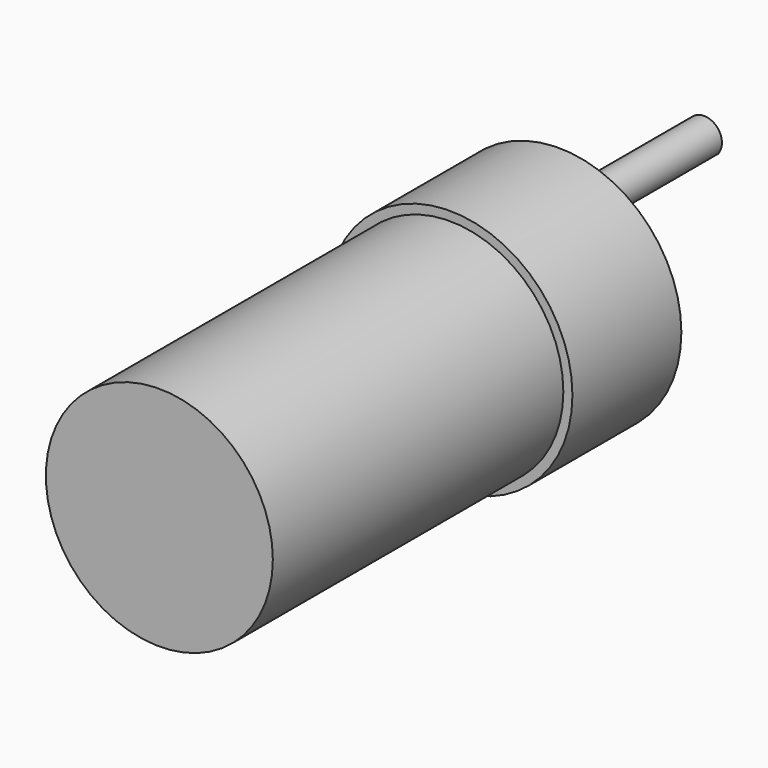
from build123d import *

# Parameters (mm, degrees)
F0_R     = 17.145
F1_DEPTH = 19.05
F3_DEPTH = 25.4
F4_R     = 15.875
F5_DEPTH = 50.8


with BuildPart() as f1:
    # F0 (on Front) → F1 (new body)
    with BuildSketch(Plane.XZ):
        Circle(F0_R)
    extrude(amount=F1_DEPTH)

    # F2 (on face) → F3 (join)
    with BuildSketch(Plane(origin=(0, 0, 0), x_dir=(-1, 0, 0), z_dir=(0, 1, 0))):
        with BuildLine():
            Line((-1.981773, 6.731), (1.981773, 6.731))
            ThreePointArc((1.981773, 6.731), (0, 10.755), (-1.981773, 6.731))
        make_face()
    extrude(amount=F3_DEPTH)

    # F4 (on face) → F5 (join)
    with BuildSketch(Plane.XZ.offset(19.05)):
        Circle(F4_R)
    extrude(amount=F5_DEPTH)


solid = f1.part
